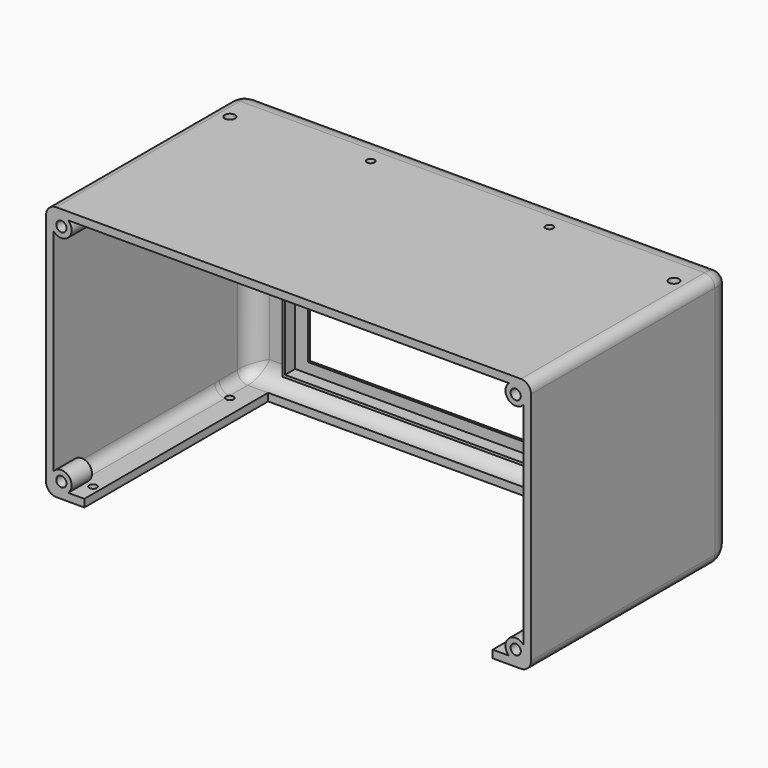
from build123d import *

# Parameters (mm, degrees)
SKETCH074_W     = 190
SKETCH074_H     = 100
PAD005_DEPTH    = 100
FILLET001_R     = 10
THICKNESS_T     = -3
SKETCH_W        = 160
SKETCH_H        = 94.350046
POCKET_DEPTH    = 5
SKETCH075_R     = 1.5
SKETCH075_R_2   = 2
POCKET022_DEPTH = 5
SKETCH076_R     = 1.5
POCKET023_DEPTH = 5
FILLET002_R     = 4
SKETCH078_W     = 140
SKETCH078_H     = 72
POCKET025_DEPTH = 5
CHAMFER_ANGLE   = 45
CHAMFER_SIZE    = 2
SKETCH079_R     = 4
SKETCH079_R_2   = 2
PAD_DEPTH       = 10
SKETCH083_W     = 30
SKETCH083_H     = 17
POCKET028_DEPTH = 5
SKETCH084_W     = 152
SKETCH084_H     = 82
SKETCH084_W_2   = 150
SKETCH084_H_2   = 80
PAD007_DEPTH    = 5


with BuildPart() as part:
    # Sketch074 → Pad005 (new body)
    with BuildSketch(Plane.XZ):
        with Locations((-95, 50)):
            Rectangle(SKETCH074_W, SKETCH074_H)
    extrude(amount=PAD005_DEPTH)

    # Fillet001
    fillet001_edges = [part.edges().sort_by_distance(p)[0] for p in [
        (-95, 0, 100),
        (-190, 0, 50),
        (-95, 0, 0),
        (0, 0, 50),
    ]]
    fillet(fillet001_edges, radius=FILLET001_R)

    # Thickness
    thickness_openings = [part.faces().sort_by_distance(p)[0] for p in [
        (-95, -100, 50),
    ]]
    offset(amount=THICKNESS_T, openings=thickness_openings)

    # Sketch (on Face2 of Thickness) → Pocket (cut)
    with BuildSketch(Plane(origin=(0, 0, 0), x_dir=(1, 0, 0), z_dir=(0, 0, -1))):
        with Locations((-95, 57.175023)):
            Rectangle(SKETCH_W, SKETCH_H)
    extrude(amount=-POCKET_DEPTH, mode=Mode.SUBTRACT)

    # Sketch075 (on Face5 of Pocket) → Pocket022 (cut)
    with BuildSketch(Plane.XY.offset(100)):
        with Locations((-60, -16)):
            Circle(SKETCH075_R)
        with Locations((-130, -16)):
            Circle(SKETCH075_R)
        with Locations((-8, -20)):
            Circle(SKETCH075_R_2)
        with Locations((-182, -20)):
            Circle(SKETCH075_R_2)
    extrude(amount=-POCKET022_DEPTH, mode=Mode.SUBTRACT)

    # Sketch076 (on Face13 of Pocket022) → Pocket023 (cut)
    with BuildSketch(Plane.XY.offset(3)):
        with Locations((-178, -92)):
            Circle(SKETCH076_R)
        with Locations((-12, -92)):
            Circle(SKETCH076_R)
        with Locations((-182, -20)):
            Circle(SKETCH076_R)
        with Locations((-8, -20)):
            Circle(SKETCH076_R)
    extrude(amount=-POCKET023_DEPTH, mode=Mode.SUBTRACT)

    # Fillet002
    fillet002_edges = [part.edges().sort_by_distance(p)[0] for p in [
        (0, -55, 0),
        (-3, -55, 3),
        (-190, -55, 0),
        (-187, -55, 3),
        (-190, -55, 100),
        (0, -55, 100),
        (-187, -55, 97),
        (-3, -55, 97),
    ]]
    fillet(fillet002_edges, radius=FILLET002_R)

    # Sketch078 (on Face8 of Fillet002) → Pocket025 (cut)
    with BuildSketch(Plane(origin=(0, 0, 0), x_dir=(-1, 0, 0), z_dir=(0, 1, 0))):
        with Locations((95, 50)):
            Rectangle(SKETCH078_W, SKETCH078_H)
    extrude(amount=-POCKET025_DEPTH, mode=Mode.SUBTRACT)

    # Chamfer
    chamfer_edges = [part.edges().sort_by_distance(p)[0] for p in [
        (-25, 0, 50),
        (-95, 0, 86),
        (-165, 0, 50),
        (-95, 0, 14),
    ]]
    chamfer_side = part.faces().sort_by_distance((-95, 0, 88.121171))[0]
    chamfer(chamfer_edges, length=CHAMFER_SIZE, angle=CHAMFER_ANGLE, reference=chamfer_side)

    # Sketch079 (on Face27 of Chamfer) → Pad (join)
    with BuildSketch(Plane.XZ.offset(100)):
        with Locations((-184, 94)):
            Circle(SKETCH079_R)
        with Locations((-184, 94)):
            Circle(SKETCH079_R_2, mode=Mode.SUBTRACT)
        with Locations((-6, 94)):
            Circle(SKETCH079_R)
        with Locations((-6, 94)):
            Circle(SKETCH079_R_2, mode=Mode.SUBTRACT)
        with Locations((-6, 6)):
            Circle(SKETCH079_R)
        with Locations((-6, 6)):
            Circle(SKETCH079_R_2, mode=Mode.SUBTRACT)
        with Locations((-184, 6)):
            Circle(SKETCH079_R)
        with Locations((-184, 6)):
            Circle(SKETCH079_R_2, mode=Mode.SUBTRACT)
    extrude(amount=-PAD_DEPTH)

    # Sketch083 (on Face23 of Pad) → Pocket028 (cut)
    with BuildSketch(Plane(origin=(0, 0, 0), x_dir=(1, 0, 0), z_dir=(0, 0, -1))):
        with Locations((-20, 69.5)):
            Rectangle(SKETCH083_W, SKETCH083_H)
    extrude(amount=-POCKET028_DEPTH, mode=Mode.SUBTRACT)

    # Sketch084 (on Face24 of Pocket028) → Pad007 (join)
    with BuildSketch(Plane.XZ.offset(3)):
        with Locations((-95, 50)):
            Rectangle(SKETCH084_W, SKETCH084_H)
        with Locations((-95, 50)):
            Rectangle(SKETCH084_W_2, SKETCH084_H_2, mode=Mode.SUBTRACT)
    extrude(amount=PAD007_DEPTH)


with BuildPart() as part_1:
    # Body003 placement: moved
    add(part.part.moved(Location((-17.9, -34.7, 112.1))))


solid = part_1.part
